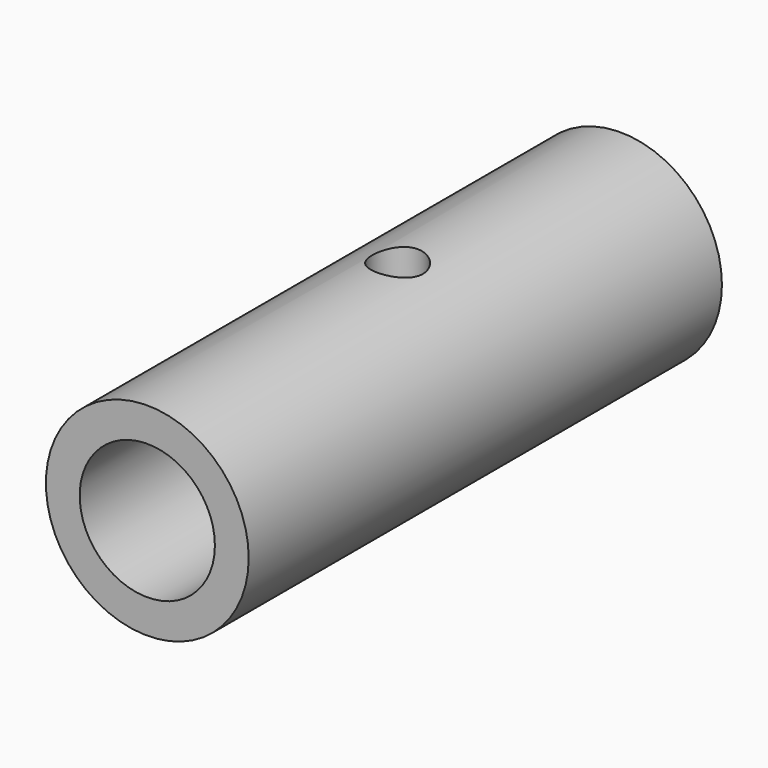
from build123d import *

# Parameters (mm, degrees)
F0_R   = 6
F0_R_2 = 4
F3_R   = 1.5


with BuildPart() as f2:
    # F2: sweep along a path in F1
    with BuildLine(Plane.XY) as f2_path:
        Line((0, 0), (0, 35))
    # F0 (on Front) → F2 (sweep)
    with BuildSketch(Plane.XZ):
        Circle(F0_R)
        Circle(F0_R_2, mode=Mode.SUBTRACT)
    sweep(path=f2_path.line)

    # F5: sweep along a path in F4
    with BuildLine(Plane.XZ) as f5_path:
        Line((-2.3976062158, 0), (-2.3976062158, 15))
    # F3 (on Top) → F5 (sweep, cut)
    with BuildSketch(Plane.XY):
        with Locations((0, 18.511749804)):
            Circle(F3_R)
    sweep(path=f5_path.line, mode=Mode.SUBTRACT)


solid = f2.part
